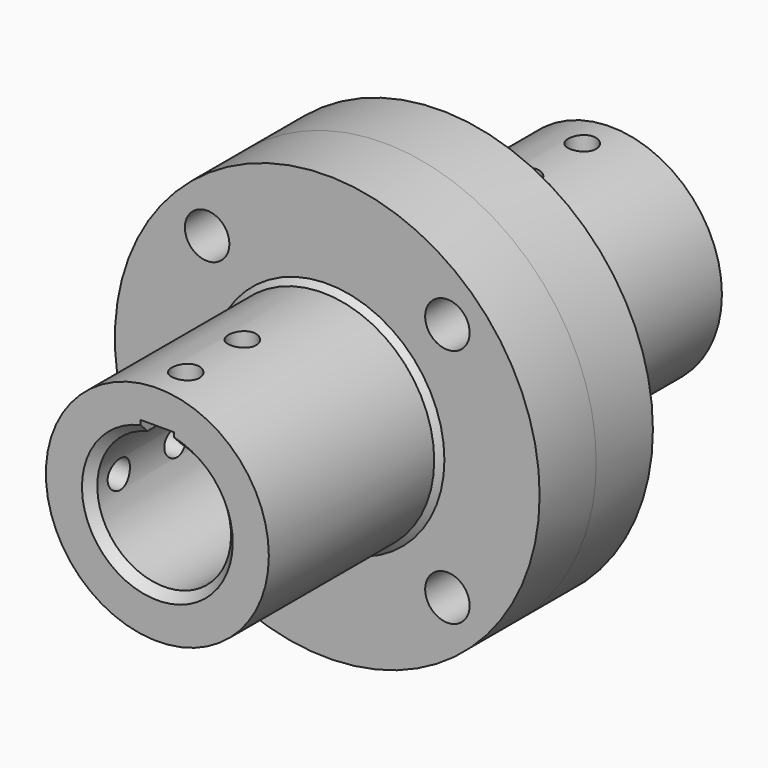
from build123d import *

# Parameters (mm, degrees)
F0_R          = 19.05
F0_R_2        = 1.9939
F0_R_3        = 10
F0_R_4        = 7
F2_DEPTH      = 6.35
F0_R_5        = 6
F3_DEPTH      = 25.4
F3_DEPTH_BACK = 3.175
F4_DEPTH      = 6.35
F5_START      = -3.302
F5_DEPTH      = 22.098
F6_SIZE       = 0.508
F6_2_SIZE     = 0.508
F7_SIZE       = 0.762
F7_2_SIZE     = 0.762
F8_DEPTH      = 25.4
F8_DEPTH_BACK = 25.4
F9_DEPTH      = 25.4
F10_R         = 1.25
F12_DEPTH     = 25.4
F11_R         = 1.25
F13_DEPTH     = 25.4


with BuildPart() as f2:
    # F0 (on Front) → F2 (new body)
    with BuildSketch(Plane.XZ):
        Circle(F0_R)
        with Locations((-10.7763073453, -10.7763073453)):
            Circle(F0_R_2, mode=Mode.SUBTRACT)
        with Locations((10.7763073453, -10.7763073453)):
            Circle(F0_R_2, mode=Mode.SUBTRACT)
        with Locations((-10.7763073453, 10.7763073453)):
            Circle(F0_R_2, mode=Mode.SUBTRACT)
        Circle(F0_R_3, mode=Mode.SUBTRACT)
        with Locations((10.7763073453, 10.7763073453)):
            Circle(F0_R_2, mode=Mode.SUBTRACT)
        Circle(F0_R_3)
        Circle(F0_R_4, mode=Mode.SUBTRACT)
    extrude(amount=F2_DEPTH)

    # F0 (on Front) → F3 (join, two sides)
    with BuildSketch(Plane.XZ) as f3_sk:
        Circle(F0_R_3)
        Circle(F0_R_4, mode=Mode.SUBTRACT)
        Circle(F0_R_4)
        Circle(F0_R_5, mode=Mode.SUBTRACT)
    extrude(amount=F3_DEPTH)
    extrude(f3_sk.sketch, amount=-F3_DEPTH_BACK)

    # F6
    f6_edges = [f2.edges().sort_by_distance(p)[0] for p in [
        (-10, -6.35, 0),
        (-10, 0, 0),
    ]]
    chamfer(f6_edges, length=F6_SIZE)

    # F7#2
    f7_2_edges = [f2.edges().sort_by_distance(p)[0] for p in [
        (-6, -25.4, 0),
        (-6, 3.175, 0),
        (-10, 3.175, 0),
    ]]
    chamfer(f7_2_edges, length=F7_2_SIZE)


with BuildPart() as f4:
    # F0 (on Front) → F4 (new body)
    with BuildSketch(Plane.XZ):
        Circle(F0_R)
        with Locations((-10.7763073453, -10.7763073453)):
            Circle(F0_R_2, mode=Mode.SUBTRACT)
        with Locations((10.7763073453, -10.7763073453)):
            Circle(F0_R_2, mode=Mode.SUBTRACT)
        with Locations((-10.7763073453, 10.7763073453)):
            Circle(F0_R_2, mode=Mode.SUBTRACT)
        Circle(F0_R_3, mode=Mode.SUBTRACT)
        with Locations((10.7763073453, 10.7763073453)):
            Circle(F0_R_2, mode=Mode.SUBTRACT)
    extrude(amount=-F4_DEPTH)

    # F0 (on Front) → F5 (join)
    with BuildSketch(Plane.XZ.offset(F5_START)):
        Circle(F0_R_3)
        Circle(F0_R_4, mode=Mode.SUBTRACT)
    extrude(amount=-F5_DEPTH)

    # F6#2
    f6_2_edges = [f4.edges().sort_by_distance(p)[0] for p in [
        (-10, 6.35, 0),
        (-10, 3.302, 0),
    ]]
    chamfer(f6_2_edges, length=F6_2_SIZE)

    # F7
    f7_edges = [f4.edges().sort_by_distance(p)[0] for p in [
        (-10, 0, 0),
        (-7, 25.4, 0),
        (-7, 3.302, 0),
    ]]
    chamfer(f7_edges, length=F7_SIZE)


with BuildPart() as f8_tool:
    # F1 (on Front) → F8 (new body, two sides)
    with BuildSketch(Plane.XZ) as f8_sk:
        Polygon((1.5, 7), (-1.5, 7), (-1.5, 3.5774347728), (0, 3.5774347728), (1.5, 3.5774347728), align=None)
    extrude(amount=-F8_DEPTH)
    extrude(f8_sk.sketch, amount=F8_DEPTH_BACK)


with BuildPart() as f2_1:
    add(f2.part)

    # F8: cut by f8_tool
    add(f8_tool.part, mode=Mode.SUBTRACT)


with BuildPart() as f4_1:
    add(f4.part)

    # F8: cut by f8_tool
    add(f8_tool.part, mode=Mode.SUBTRACT)

    # F1 (on Front) → F9 (cut)
    with BuildSketch(Plane.XZ):
        Polygon((1.5, 7), (-1.5, 7), (-1.5, 3.5774347728), (0, 3.5774347728), (1.5, 3.5774347728), align=None)
        Polygon((1.5, 8), (0, 8), (-1.5, 8), (-1.5, 7), (1.5, 7), align=None)
    extrude(amount=-F9_DEPTH, mode=Mode.SUBTRACT)


with BuildPart() as f12_tool:
    # F10 (on Top) → F12 (new body)
    with BuildSketch(Plane.XY):
        with Locations((0, 15.875)):
            Circle(F10_R)
        with Locations((0, 22.225)):
            Circle(F10_R)
        with Locations((0, -15.875)):
            Circle(F10_R)
        with Locations((0, -22.225)):
            Circle(F10_R)
    extrude(amount=F12_DEPTH)


with BuildPart() as f2_2:
    add(f2_1.part)

    # F12: cut by f12_tool
    add(f12_tool.part, mode=Mode.SUBTRACT)


with BuildPart() as f4_2:
    add(f4_1.part)

    # F12: cut by f12_tool
    add(f12_tool.part, mode=Mode.SUBTRACT)


with BuildPart() as f13_tool:
    # F11 (on Right) → F13 (new body)
    with BuildSketch(Plane.YZ):
        with Locations((-22.225, 0)):
            Circle(F11_R)
        with Locations((-15.875, 0)):
            Circle(F11_R)
        with Locations((15.875, 0)):
            Circle(F11_R)
        with Locations((22.225, 0)):
            Circle(F11_R)
    extrude(amount=-F13_DEPTH)


with BuildPart() as f2_3:
    add(f2_2.part)

    # F13: cut by f13_tool
    add(f13_tool.part, mode=Mode.SUBTRACT)


with BuildPart() as f4_3:
    add(f4_2.part)

    # F13: cut by f13_tool
    add(f13_tool.part, mode=Mode.SUBTRACT)


solid = Compound([f2_3.part, f4_3.part])
